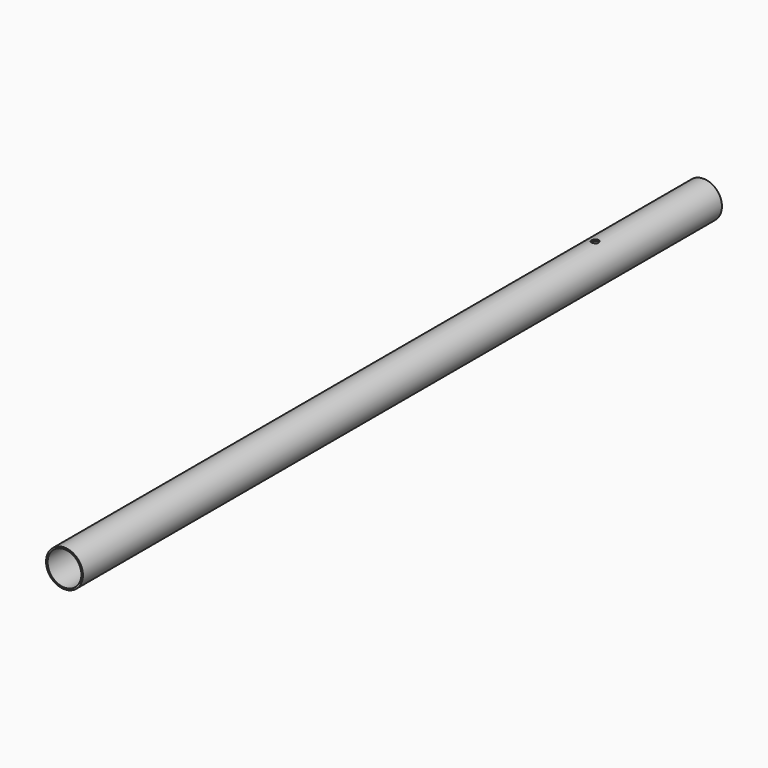
from build123d import *

# Parameters (mm, degrees)
F0_R     = 19.05
F0_R_2   = 17.45
F1_DEPTH = 825
F2_R     = 3.5625283299
F3_DEPTH = 20.050000094
F4_R     = 1
F5_DEPTH = 20.050000107


with BuildPart() as f1:
    # F0 (on Front) → F1 (new body)
    with BuildSketch(Plane.XZ):
        Circle(F0_R)
        Circle(F0_R_2, mode=Mode.SUBTRACT)
    extrude(amount=F1_DEPTH)

    # F2 (on Top) → F3 (cut, up to face)
    with BuildSketch(Plane.XY):
        with Locations((0, -140)):
            Circle(F2_R)
    extrude(amount=F3_DEPTH, mode=Mode.SUBTRACT)

    # F4 (on Top) → F5 (cut, up to face)
    with BuildSketch(Plane.XY):
        with Locations((0, -15)):
            Circle(F4_R)
    extrude(amount=-F5_DEPTH, mode=Mode.SUBTRACT)


solid = f1.part
